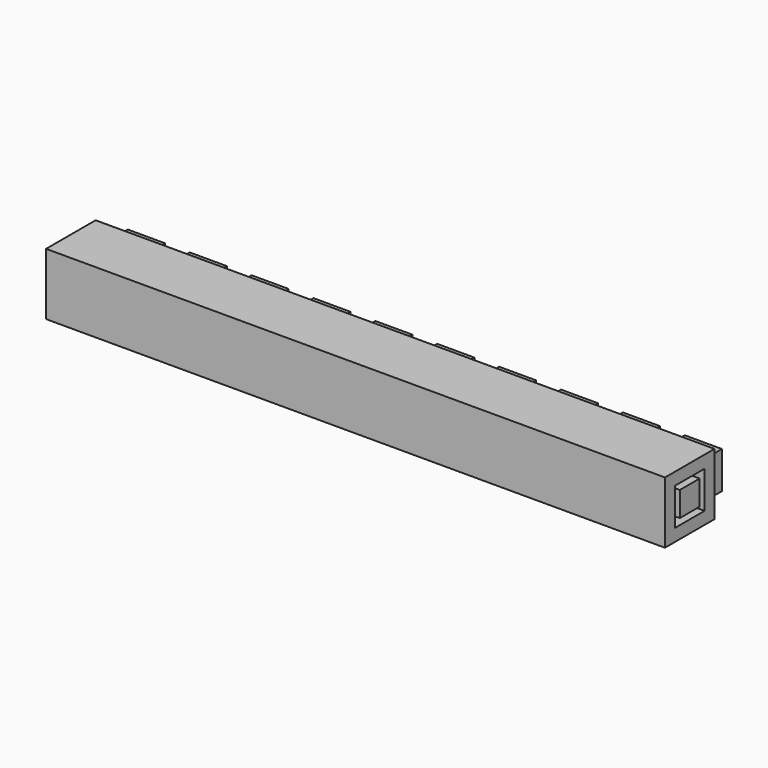
from build123d import *

# Parameters (mm, degrees)
F0_W     = 50
F0_H     = 5
F1_DEPTH = 5
F2_W     = 3
F2_H     = 3
F3_DEPTH = 2
F4_W     = 3
F4_H     = 3
F4_W_2   = 2
F4_H_2   = 2
F5_DEPTH = 3
F6_W     = 3
F6_H     = 3
F6_W_2   = 2
F6_H_2   = 2
F7_DEPTH = 3


with BuildPart() as f1:
    # F0 (on Front) → F1 (new body)
    with BuildSketch(Plane.XZ):
        with Locations((-10.476069, 8.731769)):
            Rectangle(F0_W, F0_H)
    extrude(amount=F1_DEPTH)

    # F2 (on Front) → F3 (join)
    with BuildSketch(Plane.XZ):
        with Locations((-32.976069, 8.585279)):
            Rectangle(F2_W, F2_H)
        with Locations((-27.976069, 8.585279)):
            Rectangle(F2_W, F2_H)
        with Locations((-22.976069, 8.585279)):
            Rectangle(F2_W, F2_H)
        with Locations((-17.976069, 8.585279)):
            Rectangle(F2_W, F2_H)
        with Locations((-12.976069, 8.585279)):
            Rectangle(F2_W, F2_H)
        with Locations((-7.976069, 8.585279)):
            Rectangle(F2_W, F2_H)
        with Locations((-2.976069, 8.585279)):
            Rectangle(F2_W, F2_H)
        with Locations((2.023931, 8.585279)):
            Rectangle(F2_W, F2_H)
        with Locations((7.023931, 8.585279)):
            Rectangle(F2_W, F2_H)
        with Locations((12.023931, 8.585279)):
            Rectangle(F2_W, F2_H)
    extrude(amount=-F3_DEPTH)

    # F4 (on face) → F5 (cut)
    with BuildSketch(Plane(origin=(-35.476069, 0, 0), x_dir=(0, -1, 0), z_dir=(-1, 0, 0))):
        with Locations((2.5, 8.731769)):
            Rectangle(F4_W, F4_H)
        with Locations((2.5, 8.731769)):
            Rectangle(F4_W_2, F4_H_2, mode=Mode.SUBTRACT)
    extrude(amount=-F5_DEPTH, mode=Mode.SUBTRACT)

    # F6 (on face) → F7 (cut)
    with BuildSketch(Plane.YZ.offset(14.523931)):
        with Locations((-2.5, 8.731769)):
            Rectangle(F6_W, F6_H)
        with Locations((-2.5, 8.731769)):
            Rectangle(F6_W_2, F6_H_2, mode=Mode.SUBTRACT)
    extrude(amount=-F7_DEPTH, mode=Mode.SUBTRACT)


solid = f1.part
